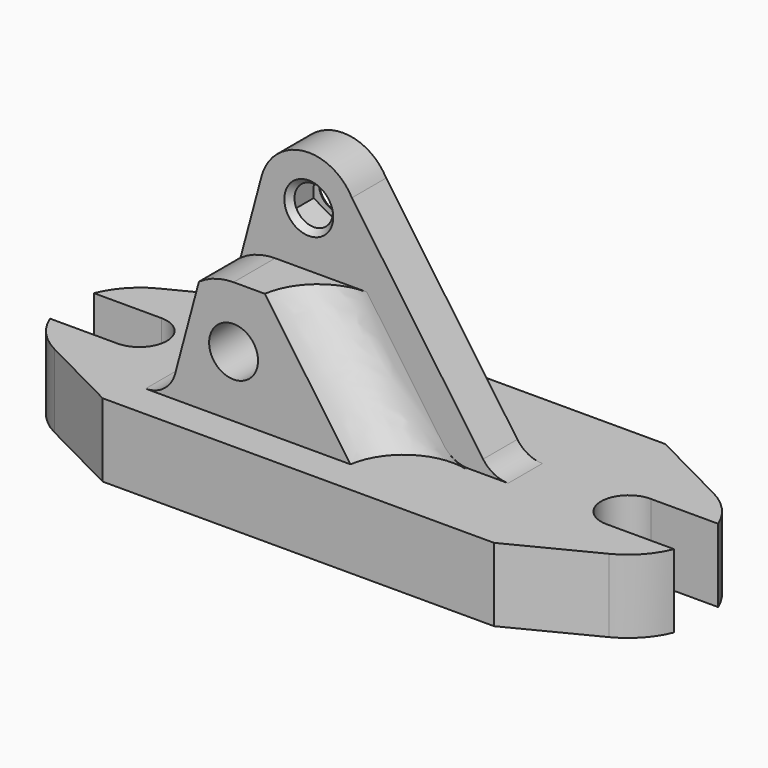
from build123d import *

# Parameters (mm, degrees)
F1_DEPTH        = 17.5
F2_DEPTH        = 12
F3_DEPTH        = 3.5
F4_R            = 10
F7_R            = 10
F11_D           = 9
F13_D           = 9
F20_D           = 5.5
F20_DEPTH       = 3.5
F20_CSINK_D     = 8
F20_CSINK_ANGLE = 82
F20_TIP         = 1.6523667023
F22_D           = 5.5
F22_DEPTH       = 3.5
F22_CSINK_D     = 8
F22_CSINK_ANGLE = 82
F22_TIP         = 1.6523667023
F24_DEPTH       = 2.5


with BuildPart() as f1:
    # F0 (on Front) → F1 (new body, symmetric)
    with BuildSketch(Plane.XZ):
        Polygon((52, -6), (52, 6), (23.1059112473, 6), (16.606986017, 6), (9.0432994782, 6), (7.106986017, 6), (-9.5, 6), (-29.3893709637, 6), (-52, 6), (-52, -6), align=None)
    extrude(amount=F1_DEPTH, both=True)

    # F0 (on Front) → F2 (join, symmetric)
    with BuildSketch(Plane.XZ):
        with BuildLine():
            ThreePointArc((-24.5597418322, 9.7059047745), (-26.3455638186, 7.0332332985), (-29.3893709637, 6))
            Line((-29.3893709637, 6), (-9.5, 6))
            Line((-9.5, 6), (-9.5, 26))
            Line((-9.5, 26), (-15, 26))
            ThreePointArc((-15, 26), (-17.9660849945, 25.5499916129), (-20.665217364, 24.2404679611))
            Line((-20.665217364, 24.2404679611), (-24.5597418322, 9.7059047745))
        make_face()
        with BuildLine():
            ThreePointArc((-11, 16), (-17.8284271247, 13.1715728753), (-15, 20))
            ThreePointArc((-15, 20), (-12.1715728753, 18.8284271247), (-11, 16))
        make_face(mode=Mode.SUBTRACT)
        with BuildLine():
            Line((-9.5, 6), (7.106986017, 6))
            ThreePointArc((7.106986017, 6), (4.7982429508, 6.5649458341), (3.0112257955, 8.1321178182))
            Line((3.0112257955, 8.1321178182), (-9.5, 26))
            Line((-9.5, 26), (-9.5, 6))
        make_face()
        with BuildLine():
            Line((9.0432994782, 6), (16.606986017, 6))
            ThreePointArc((16.606986017, 6), (14.2982429508, 6.5649458341), (12.5112257955, 8.1321178182))
            Line((12.5112257955, 8.1321178182), (0, 26))
            Line((0, 26), (-9.5, 26))
            Line((-9.5, 26), (3.0112257955, 8.1321178182))
            ThreePointArc((3.0112257955, 8.1321178182), (4.7982429508, 6.5649458341), (7.106986017, 6))
            Line((7.106986017, 6), (9.0432994782, 6))
        make_face()
    extrude(amount=F2_DEPTH, both=True)

    # F0 (on Front) → F3 (join, symmetric)
    with BuildSketch(Plane.XZ):
        with BuildLine():
            Line((16.606986017, 6), (23.1059112473, 6))
            ThreePointArc((23.1059112473, 6), (20.7971681811, 6.5649458341), (19.0101510258, 8.1321178182))
            Line((19.0101510258, 8.1321178182), (-2.4481396714, 38.7777329056))
            ThreePointArc((-2.4481396714, 38.7777329056), (-10.4179907667, 42.9471562808), (-17.2274066103, 37.0705523608))
            Line((-17.2274066103, 37.0705523608), (-20.665217364, 24.2404679611))
            ThreePointArc((-20.665217364, 24.2404679611), (-17.9660849945, 25.5499916129), (-15, 26))
            Line((-15, 26), (-9.5, 26))
            Line((-9.5, 26), (0, 26))
            Line((0, 26), (12.5112257955, 8.1321178182))
            ThreePointArc((12.5112257955, 8.1321178182), (14.2982429508, 6.5649458341), (16.606986017, 6))
        make_face()
        with BuildLine():
            ThreePointArc((-6.75, 35), (-7.5554563517, 33.0554563517), (-9.5, 32.25))
            ThreePointArc((-9.5, 32.25), (-11.4445436483, 36.9445436483), (-6.75, 35))
        make_face(mode=Mode.SUBTRACT)
    extrude(amount=F3_DEPTH, both=True)

    # F8: sweep along a path in F5
    with BuildLine(Plane.XZ.offset(12)) as f8_path:
        Line((0, 26), (14.0041507642, 6))
    # F4 (on face) → F8 (sweep, cut)
    with BuildSketch(Plane.XY.offset(26)):
        with Locations((0, -13.5)):
            Circle(F4_R)
    sweep(path=f8_path.line, mode=Mode.SUBTRACT)

    # F9: sweep along a path in F6
    with BuildLine(Plane(origin=(0, 12, 0), x_dir=(-1, 0, 0), z_dir=(0, 1, 0))) as f9_path:
        Line((0, 26), (-14.0041507642, 6))
    # F7 (on face) → F9 (sweep, cut)
    with BuildSketch(Plane.XY.offset(26)):
        with Locations((0, 13.5)):
            Circle(F7_R)
    sweep(path=f9_path.line, mode=Mode.SUBTRACT)

    # F11 (through all)
    with Locations(Plane.XY.offset(6)):
        with Locations((40, 0)):
            Hole(F11_D / 2)

    # F13 (through all)
    with Locations(Plane.XY.offset(6)):
        with Locations((-40, 0)):
            Hole(F13_D / 2)

    # F15: sweep along a path in F15_path
    with BuildLine(Plane(origin=(-52, -17.5, -6), x_dir=(0, 0, -1), z_dir=(0, 1, 0))) as f15_path:
        Line((0, 0), (-12, 0))
    # F14 (on face) → F15 (sweep, cut)
    with BuildSketch(Plane.XY.offset(6)):
        with BuildLine():
            Line((-45.3612986682, 10.6920782903), (-32, 17.5))
            Line((-32, 17.5), (-52, 17.5))
            Line((-52, 17.5), (-52, -17.5))
            Line((-52, -17.5), (-32, -17.5))
            Line((-32, -17.5), (-45.3612986682, -10.6920782903))
            ThreePointArc((-45.3612986682, -10.6920782903), (-51.9134126713, 0), (-45.3612986682, 10.6920782903))
        make_face()
    sweep(path=f15_path.line, mode=Mode.SUBTRACT)

    # F16: sweep along a path in F0
    with BuildLine(Plane.XZ) as f16_path:
        Line((-52, 6), (-52, -6))
    # F12 (on face) → F16 (sweep, cut)
    with BuildSketch(Plane.XY.offset(6)):
        with BuildLine():
            ThreePointArc((-40, -4.5), (-44.5, 0), (-40, 4.5))
            Line((-40, 4.5), (-52, 4.5))
            Line((-52, 4.5), (-52, -4.5))
            Line((-52, -4.5), (-40, -4.5))
        make_face()
    sweep(path=f16_path.line, mode=Mode.SUBTRACT)

    # F17: sweep along a path in F17_path
    with BuildLine(Plane(origin=(52, 17.5, 6), x_dir=(0, 0, 1), z_dir=(0, -1, 0))) as f17_path:
        Line((0, 0), (-12, 0))
    # F12 (on face) → F17 (sweep, cut)
    with BuildSketch(Plane.XY.offset(6)):
        with BuildLine():
            Line((45.3612986682, -10.6920782903), (32, -17.5))
            Line((32, -17.5), (52, -17.5))
            Line((52, -17.5), (52, -4.4991668823))
            Line((52, -4.4991668823), (51.0380473784, -4.4991668823))
            ThreePointArc((51.0380473784, -4.4991668823), (48.7593240742, -8.1086282103), (45.3612986682, -10.6920782903))
        make_face()
    sweep(path=f17_path.line, mode=Mode.SUBTRACT)

    # F18: sweep along a path in F18_path
    with BuildLine(Plane(origin=(52, 17.5, 6), x_dir=(0, 0, 1), z_dir=(0, -1, 0))) as f18_path:
        Line((0, 0), (-12, 0))
    # F12 (on face) → F18 (sweep, cut)
    with BuildSketch(Plane.XY.offset(6)):
        with BuildLine():
            ThreePointArc((51.0380473784, -4.4991668823), (51.9134126713, 0), (51.0380473784, 4.4991668823))
            Line((51.0380473784, 4.4991668823), (40.0865873287, 4.4991668823))
            ThreePointArc((40.0865873287, 4.4991668823), (43.2124478968, 3.1512185755), (44.5, 0))
            ThreePointArc((44.5, 0), (43.2124478968, -3.1512185755), (40.0865873287, -4.4991668823))
            Line((40.0865873287, -4.4991668823), (51.0380473784, -4.4991668823))
        make_face()
        with BuildLine():
            Line((52, 4.4991668823), (51.0380473784, 4.4991668823))
            ThreePointArc((51.0380473784, 4.4991668823), (51.9134126713, 0), (51.0380473784, -4.4991668823))
            Line((51.0380473784, -4.4991668823), (52, -4.4991668823))
            Line((52, -4.4991668823), (52, 4.4991668823))
        make_face()
        with BuildLine():
            Line((52, 17.5), (32, 17.5))
            Line((32, 17.5), (45.3612986682, 10.6920782903))
            ThreePointArc((45.3612986682, 10.6920782903), (48.7593240742, 8.1086282103), (51.0380473784, 4.4991668823))
            Line((51.0380473784, 4.4991668823), (52, 4.4991668823))
            Line((52, 4.4991668823), (52, 17.5))
        make_face()
    sweep(path=f18_path.line, mode=Mode.SUBTRACT)

    # F20
    with Locations(Plane.XZ.offset(3.5)):
        with Locations((-9.5, 35)):
            CounterSinkHole(F20_D / 2, F20_CSINK_D / 2, depth=F20_DEPTH, counter_sink_angle=F20_CSINK_ANGLE)
            with Locations((0, 0, -(F20_DEPTH + F20_TIP / 2))):  # 118° drill point
                Cone(0, F20_D / 2, F20_TIP, mode=Mode.SUBTRACT)

    # F22
    with Locations(Plane(origin=(0, 3.5, 0), x_dir=(-1, 0, 0), z_dir=(0, 1, 0))):
        with Locations((9.5, 35)):
            CounterSinkHole(F22_D / 2, F22_CSINK_D / 2, depth=F22_DEPTH, counter_sink_angle=F22_CSINK_ANGLE)
            with Locations((0, 0, -(F22_DEPTH + F22_TIP / 2))):  # 118° drill point
                Cone(0, F22_D / 2, F22_TIP, mode=Mode.SUBTRACT)

    # F23 (on Front) → F24 (cut, symmetric)
    with BuildSketch(Plane.XZ):
        Polygon((-13.4935649536, 32.709419195), (-9.5146586694, 30.3951730687), (-5.5210095913, 32.6838839269), (-5.5062667973, 37.2868409115), (-9.4851730816, 39.6010870379), (-13.4788221597, 37.3123761796), align=None)
    extrude(amount=F24_DEPTH, both=True, mode=Mode.SUBTRACT)


solid = f1.part
